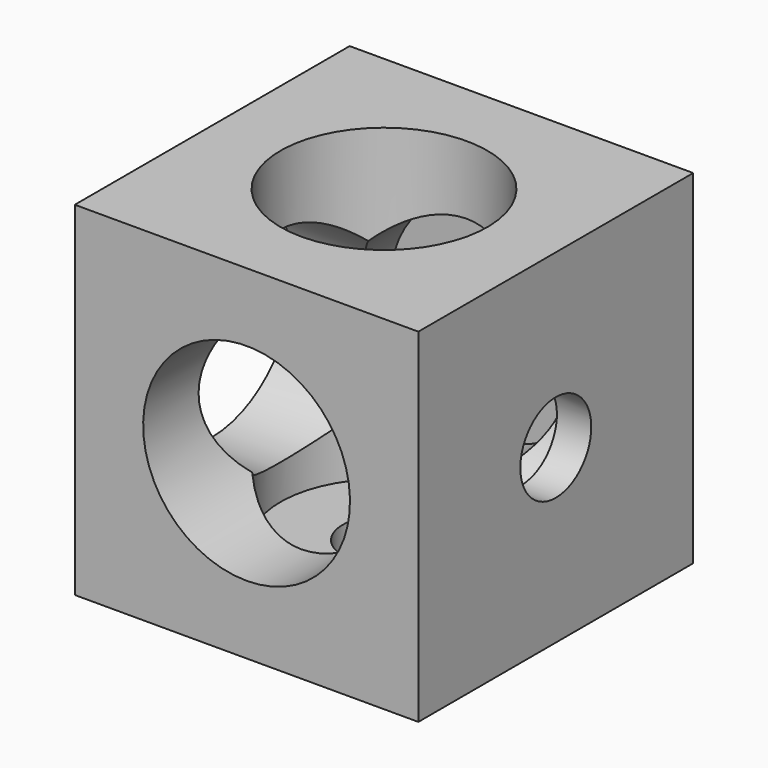
from build123d import *

# Parameters (mm, degrees)
SKETCH046_W     = 20
SKETCH046_H     = 20
PAD019_DEPTH    = 10
SKETCH047_R     = 5.966215
POCKET024_DEPTH = 18
SKETCH048_R     = 2.581292
POCKET025_DEPTH = 2
SKETCH049_R     = 6.020554
POCKET026_DEPTH = 18
SKETCH050_R     = 3.518198
POCKET027_DEPTH = 2
SKETCH051_R     = 6.023017
POCKET028_DEPTH = 18
SKETCH052_R     = 2.40921
POCKET029_DEPTH = 2


with BuildPart() as part:
    # Sketch046 → Pad019 (new body, symmetric)
    with BuildSketch(Plane(origin=(0, 0, 451.8), x_dir=(0, 0, -1), z_dir=(1, 0, 0))):
        Rectangle(SKETCH046_W, SKETCH046_H)
    extrude(amount=PAD019_DEPTH, both=True)

    # Sketch047 → Pocket024 (cut)
    with BuildSketch(Plane(origin=(-10, 0, 451.8), x_dir=(0, 0, -1), z_dir=(-1, 0, 0))):
        Circle(SKETCH047_R)
    extrude(amount=-POCKET024_DEPTH, mode=Mode.SUBTRACT)

    # Sketch048 → Pocket025 (cut)
    with BuildSketch(Plane(origin=(10, 0, 451.8), x_dir=(0, 0, -1), z_dir=(1, 0, 0))):
        Circle(SKETCH048_R)
    extrude(amount=-POCKET025_DEPTH, mode=Mode.SUBTRACT)

    # Sketch049 → Pocket026 (cut)
    with BuildSketch(Plane(origin=(0, -10, 451.8), x_dir=(0, 0, -1), z_dir=(0, -1, 0))):
        Circle(SKETCH049_R)
    extrude(amount=-POCKET026_DEPTH, mode=Mode.SUBTRACT)

    # Sketch050 → Pocket027 (cut)
    with BuildSketch(Plane(origin=(0, 10, 451.8), x_dir=(0, 0, 1), z_dir=(0, 1, 0))):
        Circle(SKETCH050_R)
    extrude(amount=-POCKET027_DEPTH, mode=Mode.SUBTRACT)

    # Sketch051 → Pocket028 (cut)
    with BuildSketch(Plane(origin=(0, 0, 461.8), x_dir=(0, -1, 0), z_dir=(0, 0, 1))):
        Circle(SKETCH051_R)
    extrude(amount=-POCKET028_DEPTH, mode=Mode.SUBTRACT)

    # Sketch052 → Pocket029 (cut)
    with BuildSketch(Plane.YX.offset(-441.8)):
        Circle(SKETCH052_R)
    extrude(amount=-POCKET029_DEPTH, mode=Mode.SUBTRACT)


solid = part.part
